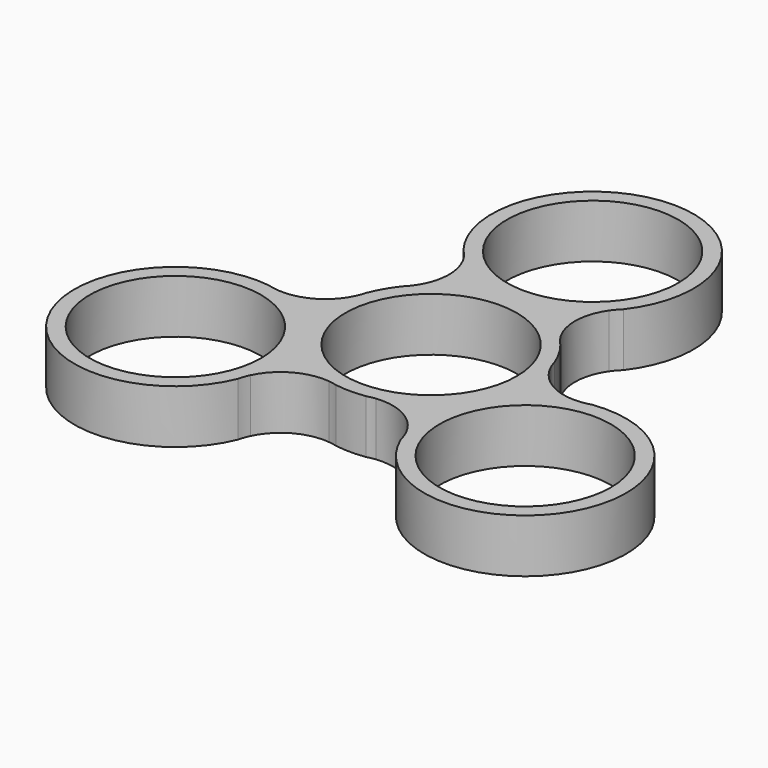
from build123d import *

# Parameters (mm, degrees)
F0_R     = 11.2
F1_DEPTH = 7


with BuildPart() as f1:
    # F0 (on Top) → F1 (new body)
    with BuildSketch(Plane.XY):
        with BuildLine():
            ThreePointArc((9.598043, 9.061875), (8.22906, 13.11739), (9.47712, 17.211736))
            ThreePointArc((9.47712, 17.211736), (9.935183, 17.801964), (10.453543, 18.34001))
            ThreePointArc((10.453543, 18.34001), (0, 39.6), (-10.453543, 18.34001))
            ThreePointArc((-10.453543, 18.34001), (-9.935183, 17.801964), (-9.47712, 17.211736))
            ThreePointArc((-9.47712, 17.211736), (-8.22906, 13.11739), (-9.598043, 9.061875))
            ThreePointArc((-9.598043, 9.061875), (-9.942486, 8.632092), (-10.319653, 8.230721))
            ThreePointArc((-10.319653, 8.230721), (-11.431535, 6.6), (-12.28784, 4.821721))
            ThreePointArc((-12.28784, 4.821721), (-12.446854, 4.294399), (-12.646835, 3.781212))
            ThreePointArc((-12.646835, 3.781212), (-15.474523, 0.56788), (-19.64436, -0.398441))
            ThreePointArc((-19.64436, -0.398441), (-20.384544, -0.296861), (-21.109686, -0.116971))
            ThreePointArc((-21.109686, -0.116971), (-34.294606, -19.8), (-10.656143, -18.223039))
            ThreePointArc((-10.656143, -18.223039), (-10.449362, -17.505103), (-10.16724, -16.813294))
            ThreePointArc((-10.16724, -16.813294), (-7.245463, -13.68527), (-3.048792, -12.843086))
            ThreePointArc((-3.048792, -12.843086), (-2.504368, -12.926492), (-1.968187, -13.052442))
            ThreePointArc((-1.968187, -13.052442), (0, -13.2), (1.968187, -13.052442))
            ThreePointArc((1.968187, -13.052442), (2.504368, -12.926492), (3.048792, -12.843086))
            ThreePointArc((3.048792, -12.843086), (7.245463, -13.68527), (10.16724, -16.813294))
            ThreePointArc((10.16724, -16.813294), (10.449362, -17.505103), (10.656143, -18.223039))
            ThreePointArc((10.656143, -18.223039), (34.294606, -19.8), (21.109686, -0.116971))
            ThreePointArc((21.109686, -0.116971), (20.384544, -0.296861), (19.64436, -0.398441))
            ThreePointArc((19.64436, -0.398441), (15.474523, 0.56788), (12.646835, 3.781212))
            ThreePointArc((12.646835, 3.781212), (12.446854, 4.294399), (12.28784, 4.821721))
            ThreePointArc((12.28784, 4.821721), (11.431535, 6.6), (10.319653, 8.230721))
            ThreePointArc((10.319653, 8.230721), (9.942486, 8.632092), (9.598043, 9.061875))
        make_face()
        with Locations((-22.863071, -13.2)):
            Circle(F0_R, mode=Mode.SUBTRACT)
        with Locations((22.863071, -13.2)):
            Circle(F0_R, mode=Mode.SUBTRACT)
        Circle(F0_R, mode=Mode.SUBTRACT)
        with Locations((0, 26.4)):
            Circle(F0_R, mode=Mode.SUBTRACT)
    extrude(amount=F1_DEPTH)


solid = f1.part
